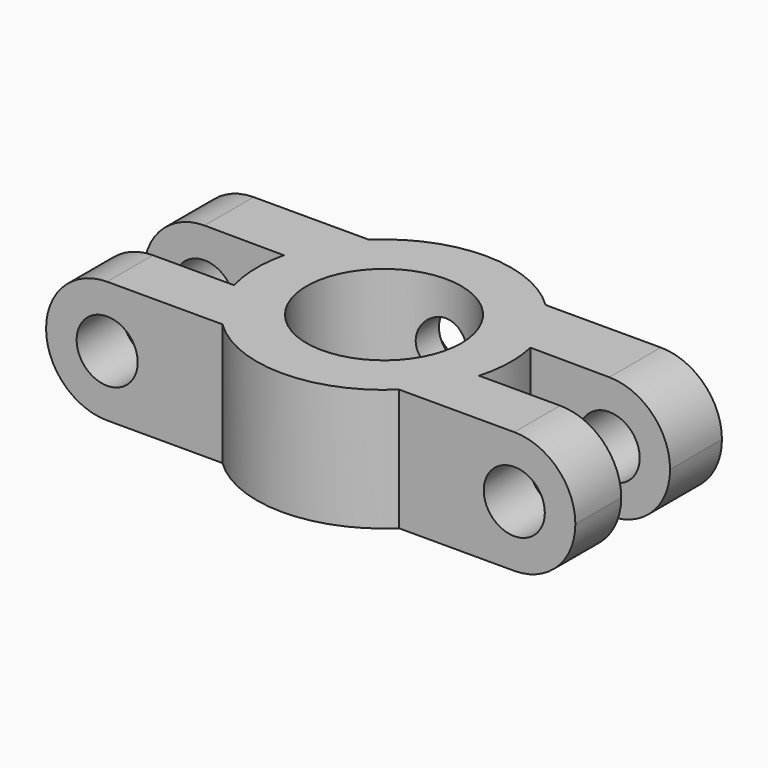
from build123d import *

# Parameters (mm, degrees)
F1_DEPTH  = 7.62
F3_DEPTH  = 7.62
F4_R      = 1.905
F5_DEPTH  = 11.431
F6_R      = 7.9375
F7_DEPTH  = 7.62
F8_R      = 4.826
F9_DEPTH  = 25.4
F11_DEPTH = 25.4
F14_DEPTH = 25.4


with BuildPart() as f1:
    # F0 (on Top) → F1 (new body)
    with BuildSketch(Plane.XY):
        Polygon((-16.51, -5.715), (0, -5.715), (16.51, -5.715), (16.51, 5.715), (-16.51, 5.715), align=None)
    extrude(amount=F1_DEPTH)

    # F2 (on face) → F3 (cut)
    with BuildSketch(Plane.XY.offset(7.62)):
        Polygon((-16.51, 1.905), (-16.51, 0), (-16.51, -2.138732), (16.51, -2.138732), (16.51, 1.671268), align=None)
    extrude(amount=-F3_DEPTH, mode=Mode.SUBTRACT)

    # F4 (on face) → F5 (cut, through all)
    with BuildSketch(Plane(origin=(0, 5.715, 0), x_dir=(-1, 0, 0), z_dir=(0, 1, 0))):
        with Locations((12.7, 3.81)):
            Circle(F4_R)
        with BuildLine():
            Line((16.51, 0), (16.51, 3.81))
            ThreePointArc((16.51, 3.81), (15.394077, 1.115923), (12.7, 0))
            Line((12.7, 0), (16.51, 0))
        make_face()
        with BuildLine():
            ThreePointArc((12.7, 7.62), (15.394077, 6.504077), (16.51, 3.81))
            Line((16.51, 3.81), (16.51, 7.62))
            Line((16.51, 7.62), (12.7, 7.62))
        make_face()
        with BuildLine():
            ThreePointArc((-10.795, 3.81), (-12.7, 5.715), (-14.605, 3.81))
            ThreePointArc((-14.605, 3.81), (-12.7, 1.905), (-10.795, 3.81))
        make_face()
        with BuildLine():
            Line((-16.51, 7.62), (-16.51, 3.81))
            ThreePointArc((-16.51, 3.81), (-15.394077, 6.504077), (-12.7, 7.62))
            Line((-12.7, 7.62), (-16.51, 7.62))
        make_face()
        with BuildLine():
            ThreePointArc((-12.7, 0), (-15.394077, 1.115923), (-16.51, 3.81))
            Line((-16.51, 3.81), (-16.51, 0))
            Line((-16.51, 0), (-12.7, 0))
        make_face()
    extrude(amount=-F5_DEPTH, mode=Mode.SUBTRACT)

    # F6 (on Top) → F7 (join, through all)
    with BuildSketch(Plane.XY):
        Circle(F6_R)
    extrude(amount=F7_DEPTH)

    # F8 (on face) → F9 (cut)
    with BuildSketch(Plane.XY.offset(7.62)):
        Circle(F8_R)
    extrude(amount=-F9_DEPTH, mode=Mode.SUBTRACT)

    # F10 (on Front) → F11 (cut)
    with BuildSketch(Plane.XZ):
        with BuildLine():
            ThreePointArc((0, 2.159), (1.167433, 2.642567), (1.651, 3.81))
            ThreePointArc((1.651, 3.81), (-1.167433, 4.977433), (0, 2.159))
        make_face()
    extrude(amount=-F11_DEPTH, mode=Mode.SUBTRACT)

    # F13 (on offset) → F14 (cut)
    with BuildSketch(Plane.XZ.offset(-6.35)):
        with BuildLine():
            ThreePointArc((0, 0.9525), (2.020558, 1.789442), (2.8575, 3.81))
            ThreePointArc((2.8575, 3.81), (-2.020558, 5.830558), (0, 0.9525))
        make_face()
    extrude(amount=-F14_DEPTH, mode=Mode.SUBTRACT)


solid = f1.part
